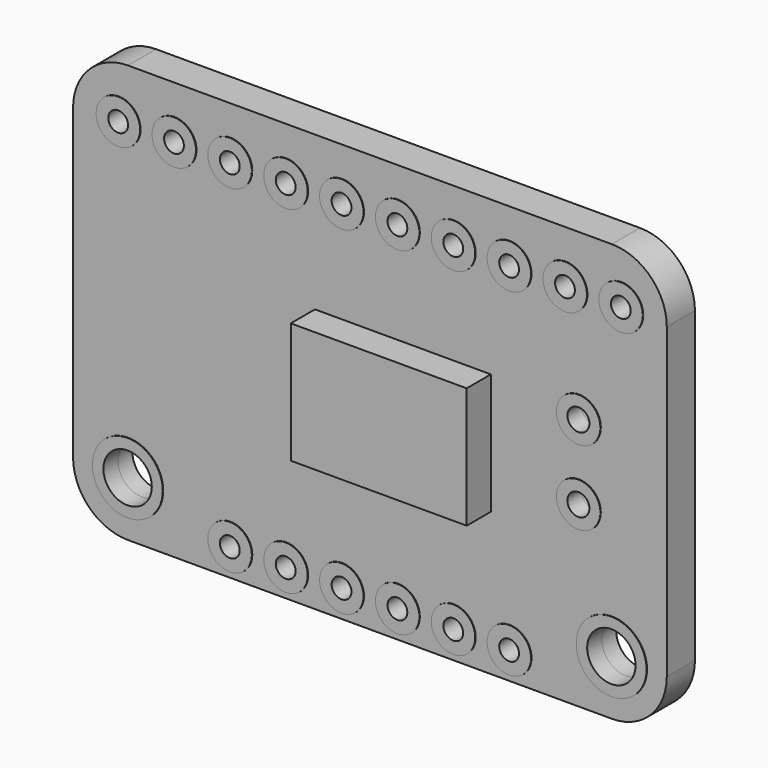
from build123d import *

# Parameters (mm, degrees)
F0_R     = 1.6
F0_R_2   = 1
F0_W     = 8
F0_H     = 5.5
F0_R_3   = 0.45
F0_R_4   = 0.5
F0_R_5   = 1.1
F1_DEPTH = 0.8
F2_DEPTH = 0.825
F3_DEPTH = 2.175


with BuildPart() as f1:
    # F0 (on Front) → F1 (new body, symmetric)
    with BuildSketch(Plane.XZ):
        with BuildLine():
            ThreePointArc((13.5, 7), (12.767767, 8.767767), (11, 9.5))
            Line((11, 9.5), (-11, 9.5))
            ThreePointArc((-11, 9.5), (-12.767767, 8.767767), (-13.5, 7))
            Line((-13.5, 7), (-13.5, -7))
            ThreePointArc((-13.5, -7), (-12.767767, -8.767767), (-11, -9.5))
            Line((-11, -9.5), (11, -9.5))
            ThreePointArc((11, -9.5), (12.767767, -8.767767), (13.5, -7))
            Line((13.5, -7), (13.5, 7))
        make_face()
        with Locations((-11, -7)):
            Circle(F0_R, mode=Mode.SUBTRACT)
        with Locations((-6.35, -8.25)):
            Circle(F0_R_2, mode=Mode.SUBTRACT)
        with Locations((-3.81, -8.25)):
            Circle(F0_R_2, mode=Mode.SUBTRACT)
        with Locations((-1.27, -8.25)):
            Circle(F0_R_2, mode=Mode.SUBTRACT)
        with Locations((1.27, -8.25)):
            Circle(F0_R_2, mode=Mode.SUBTRACT)
        with Locations((3.81, -8.25)):
            Circle(F0_R_2, mode=Mode.SUBTRACT)
        with Locations((6.35, -8.25)):
            Circle(F0_R_2, mode=Mode.SUBTRACT)
        with Locations((11, -7)):
            Circle(F0_R, mode=Mode.SUBTRACT)
        with Locations((1.5, -0.25)):
            Rectangle(F0_W, F0_H, mode=Mode.SUBTRACT)
        with Locations((9.5, -1.4)):
            Circle(F0_R_2, mode=Mode.SUBTRACT)
        with Locations((-11.43, 7.125)):
            Circle(F0_R_2, mode=Mode.SUBTRACT)
        with Locations((-8.89, 7.125)):
            Circle(F0_R_2, mode=Mode.SUBTRACT)
        with Locations((-6.35, 7.125)):
            Circle(F0_R_2, mode=Mode.SUBTRACT)
        with Locations((-3.81, 7.125)):
            Circle(F0_R_2, mode=Mode.SUBTRACT)
        with Locations((-1.27, 7.125)):
            Circle(F0_R_2, mode=Mode.SUBTRACT)
        with Locations((9.5, 2)):
            Circle(F0_R_2, mode=Mode.SUBTRACT)
        with Locations((1.27, 7.125)):
            Circle(F0_R_2, mode=Mode.SUBTRACT)
        with Locations((3.81, 7.125)):
            Circle(F0_R_2, mode=Mode.SUBTRACT)
        with Locations((6.35, 7.125)):
            Circle(F0_R_2, mode=Mode.SUBTRACT)
        with Locations((8.89, 7.125)):
            Circle(F0_R_2, mode=Mode.SUBTRACT)
        with Locations((11.43, 7.125)):
            Circle(F0_R_2, mode=Mode.SUBTRACT)
        with Locations((1.5, -0.25)):
            Rectangle(F0_W, F0_H)
        with Locations((-11.43, 7.125)):
            Circle(F0_R_2)
        with Locations((-11.43, 7.125)):
            Circle(F0_R_3, mode=Mode.SUBTRACT)
        with Locations((-8.89, 7.125)):
            Circle(F0_R_2)
        with Locations((-8.89, 7.125)):
            Circle(F0_R_3, mode=Mode.SUBTRACT)
        with Locations((-6.35, 7.125)):
            Circle(F0_R_2)
        with Locations((-6.35, 7.125)):
            Circle(F0_R_3, mode=Mode.SUBTRACT)
        with Locations((-3.81, 7.125)):
            Circle(F0_R_2)
        with Locations((-3.81, 7.125)):
            Circle(F0_R_3, mode=Mode.SUBTRACT)
        with Locations((-1.27, 7.125)):
            Circle(F0_R_2)
        with Locations((-1.27, 7.125)):
            Circle(F0_R_3, mode=Mode.SUBTRACT)
        with Locations((1.27, 7.125)):
            Circle(F0_R_2)
        with Locations((1.27, 7.125)):
            Circle(F0_R_3, mode=Mode.SUBTRACT)
        with Locations((3.81, 7.125)):
            Circle(F0_R_2)
        with Locations((3.81, 7.125)):
            Circle(F0_R_3, mode=Mode.SUBTRACT)
        with Locations((6.35, 7.125)):
            Circle(F0_R_2)
        with Locations((6.35, 7.125)):
            Circle(F0_R_3, mode=Mode.SUBTRACT)
        with Locations((8.89, 7.125)):
            Circle(F0_R_2)
        with Locations((8.89, 7.125)):
            Circle(F0_R_3, mode=Mode.SUBTRACT)
        with Locations((11.43, 7.125)):
            Circle(F0_R_2)
        with Locations((11.43, 7.125)):
            Circle(F0_R_3, mode=Mode.SUBTRACT)
        with Locations((9.5, 2)):
            Circle(F0_R_2)
        with Locations((9.5, 2)):
            Circle(F0_R_4, mode=Mode.SUBTRACT)
        with Locations((9.5, -1.4)):
            Circle(F0_R_2)
        with Locations((9.5, -1.4)):
            Circle(F0_R_4, mode=Mode.SUBTRACT)
        with Locations((6.35, -8.25)):
            Circle(F0_R_2)
        with Locations((6.35, -8.25)):
            Circle(F0_R_3, mode=Mode.SUBTRACT)
        with Locations((3.81, -8.25)):
            Circle(F0_R_2)
        with Locations((3.81, -8.25)):
            Circle(F0_R_3, mode=Mode.SUBTRACT)
        with Locations((1.27, -8.25)):
            Circle(F0_R_2)
        with Locations((1.27, -8.25)):
            Circle(F0_R_3, mode=Mode.SUBTRACT)
        with Locations((-1.27, -8.25)):
            Circle(F0_R_2)
        with Locations((-1.27, -8.25)):
            Circle(F0_R_3, mode=Mode.SUBTRACT)
        with Locations((-3.81, -8.25)):
            Circle(F0_R_2)
        with Locations((-3.81, -8.25)):
            Circle(F0_R_3, mode=Mode.SUBTRACT)
        with Locations((-6.35, -8.25)):
            Circle(F0_R_2)
        with Locations((-6.35, -8.25)):
            Circle(F0_R_3, mode=Mode.SUBTRACT)
        with Locations((11, -7)):
            Circle(F0_R)
        with Locations((11, -7)):
            Circle(F0_R_5, mode=Mode.SUBTRACT)
        with Locations((-11, -7)):
            Circle(F0_R)
        with Locations((-11, -7)):
            Circle(F0_R_5, mode=Mode.SUBTRACT)
    extrude(amount=F1_DEPTH, both=True)


with BuildPart() as f2:
    # F0 (on Front) → F2 (new body, symmetric)
    with BuildSketch(Plane.XZ):
        with Locations((-11, -7)):
            Circle(F0_R)
        with Locations((-11, -7)):
            Circle(F0_R_5, mode=Mode.SUBTRACT)
        with Locations((-6.35, -8.25)):
            Circle(F0_R_2)
        with Locations((-6.35, -8.25)):
            Circle(F0_R_3, mode=Mode.SUBTRACT)
        with Locations((-1.27, -8.25)):
            Circle(F0_R_2)
        with Locations((-1.27, -8.25)):
            Circle(F0_R_3, mode=Mode.SUBTRACT)
        with Locations((-3.81, -8.25)):
            Circle(F0_R_2)
        with Locations((-3.81, -8.25)):
            Circle(F0_R_3, mode=Mode.SUBTRACT)
        with Locations((1.27, -8.25)):
            Circle(F0_R_2)
        with Locations((1.27, -8.25)):
            Circle(F0_R_3, mode=Mode.SUBTRACT)
        with Locations((3.81, -8.25)):
            Circle(F0_R_2)
        with Locations((3.81, -8.25)):
            Circle(F0_R_3, mode=Mode.SUBTRACT)
        with Locations((6.35, -8.25)):
            Circle(F0_R_2)
        with Locations((6.35, -8.25)):
            Circle(F0_R_3, mode=Mode.SUBTRACT)
        with Locations((11, -7)):
            Circle(F0_R)
        with Locations((11, -7)):
            Circle(F0_R_5, mode=Mode.SUBTRACT)
        with Locations((9.5, -1.4)):
            Circle(F0_R_2)
        with Locations((9.5, -1.4)):
            Circle(F0_R_4, mode=Mode.SUBTRACT)
        with Locations((9.5, 2)):
            Circle(F0_R_2)
        with Locations((9.5, 2)):
            Circle(F0_R_4, mode=Mode.SUBTRACT)
        with Locations((11.43, 7.125)):
            Circle(F0_R_2)
        with Locations((11.43, 7.125)):
            Circle(F0_R_3, mode=Mode.SUBTRACT)
        with Locations((8.89, 7.125)):
            Circle(F0_R_2)
        with Locations((8.89, 7.125)):
            Circle(F0_R_3, mode=Mode.SUBTRACT)
        with Locations((6.35, 7.125)):
            Circle(F0_R_2)
        with Locations((6.35, 7.125)):
            Circle(F0_R_3, mode=Mode.SUBTRACT)
        with Locations((3.81, 7.125)):
            Circle(F0_R_2)
        with Locations((3.81, 7.125)):
            Circle(F0_R_3, mode=Mode.SUBTRACT)
        with Locations((1.27, 7.125)):
            Circle(F0_R_2)
        with Locations((1.27, 7.125)):
            Circle(F0_R_3, mode=Mode.SUBTRACT)
        with Locations((-1.27, 7.125)):
            Circle(F0_R_2)
        with Locations((-1.27, 7.125)):
            Circle(F0_R_3, mode=Mode.SUBTRACT)
        with Locations((-3.81, 7.125)):
            Circle(F0_R_2)
        with Locations((-3.81, 7.125)):
            Circle(F0_R_3, mode=Mode.SUBTRACT)
        with Locations((-6.35, 7.125)):
            Circle(F0_R_2)
        with Locations((-6.35, 7.125)):
            Circle(F0_R_3, mode=Mode.SUBTRACT)
        with Locations((-8.89, 7.125)):
            Circle(F0_R_2)
        with Locations((-8.89, 7.125)):
            Circle(F0_R_3, mode=Mode.SUBTRACT)
        with Locations((-11.43, 7.125)):
            Circle(F0_R_2)
        with Locations((-11.43, 7.125)):
            Circle(F0_R_3, mode=Mode.SUBTRACT)
    extrude(amount=F2_DEPTH, both=True)


with BuildPart() as f3:
    # F0 (on Front) → F3 (new body)
    with BuildSketch(Plane.XZ):
        with Locations((1.5, -0.25)):
            Rectangle(F0_W, F0_H)
    extrude(amount=F3_DEPTH)


solid = Compound([f1.part, f2.part, f3.part])
